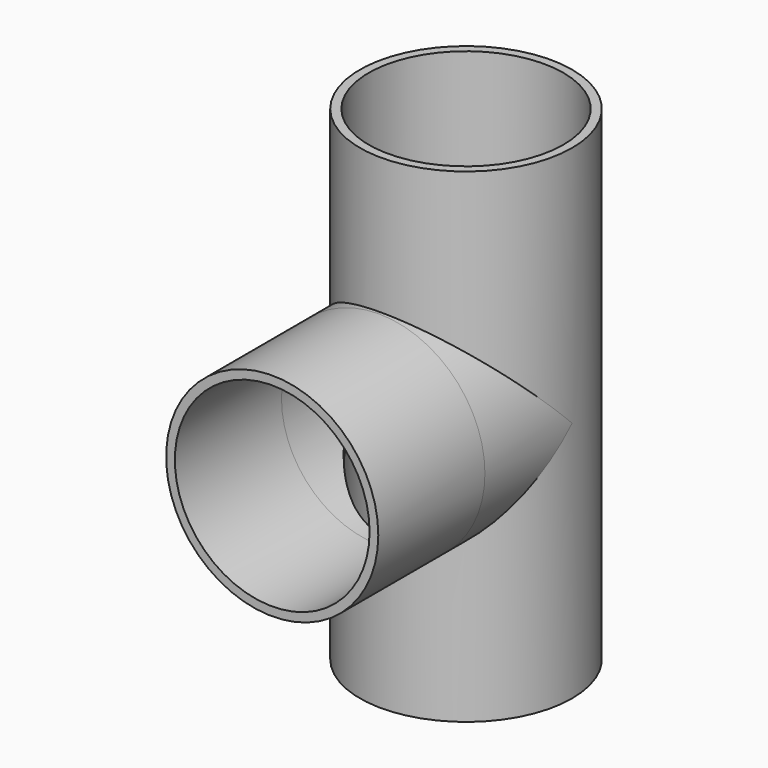
from build123d import *

# Parameters (mm, degrees)
F0_R     = 18.3
F0_R_2   = 16.8
F1_DEPTH = 83.6
F3_R     = 18.3
F3_R_2   = 16.8
F4_DEPTH = 23
F5_DEPTH = 18.8
F6_R     = 18.3
F6_R_2   = 16.8
F7_DEPTH = 18.8
F8_R     = 16.5
F9_DEPTH = 102.5


with BuildPart() as f1:
    # F0 (on Top) → F1 (new body)
    with BuildSketch(Plane.XY):
        Circle(F0_R)
        Circle(F0_R_2, mode=Mode.SUBTRACT)
    extrude(amount=F1_DEPTH)

    # F3 (on offset) → F5 (cut)
    with BuildSketch(Plane.XZ.offset(18.8)):
        with Locations((0, 41.8)):
            Circle(F3_R)
        with Locations((0, 41.8)):
            Circle(F3_R_2, mode=Mode.SUBTRACT)
        with Locations((0, 41.8)):
            Circle(F3_R_2)
    extrude(amount=-F5_DEPTH, mode=Mode.SUBTRACT)



with BuildPart() as f4:
    # F3 (on offset) → F4 (new body)
    with BuildSketch(Plane.XZ.offset(18.8)):
        with Locations((0, 41.8)):
            Circle(F3_R)
        with Locations((0, 41.8)):
            Circle(F3_R_2, mode=Mode.SUBTRACT)
    extrude(amount=F4_DEPTH)


with BuildPart() as f1_1:
    add(f1.part)

    add(f4.part)  # F7 merges F4
    # F6 (on face) → F7 (join)
    with BuildSketch(Plane(origin=(0, -18.8, 0), x_dir=(-1, 0, 0), z_dir=(0, 1, 0))):
        with Locations((0, 41.8)):
            Circle(F6_R)
        with Locations((0, 41.8)):
            Circle(F6_R_2, mode=Mode.SUBTRACT)
    extrude(amount=F7_DEPTH)

    # F8 (on face) → F9 (cut)
    with BuildSketch(Plane(origin=(0, 0, 0), x_dir=(1, 0, 0), z_dir=(0, 0, -1))):
        Circle(F8_R)
    extrude(amount=-F9_DEPTH, mode=Mode.SUBTRACT)


solid = f1_1.part
